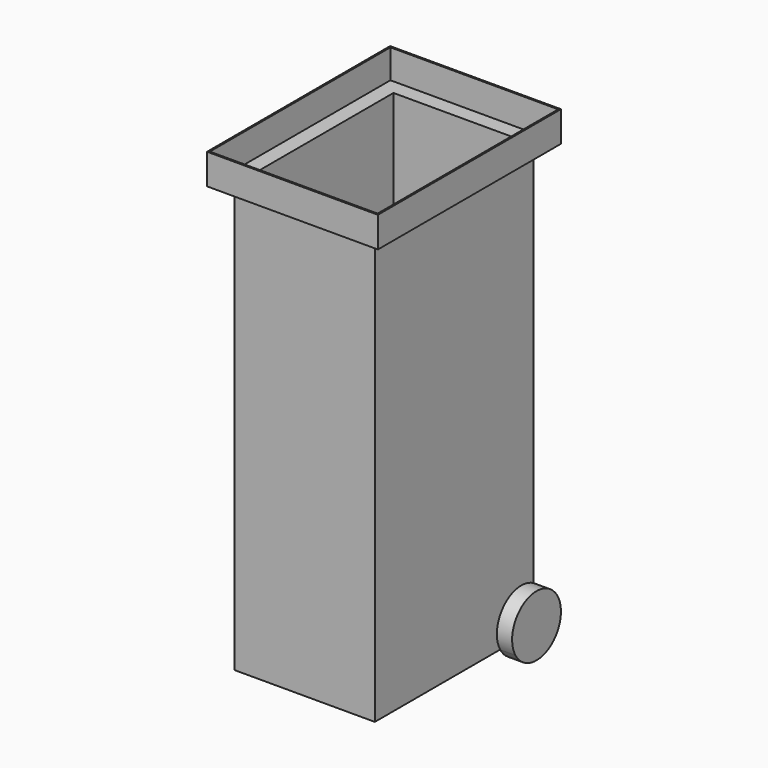
from build123d import *

# Parameters (mm, degrees)
F1_W     = 460
F1_H     = 650
F2_DEPTH = 1500
F3_W     = 560
F3_H     = 750
F3_W_2   = 460
F3_H_2   = 650
F4_DEPTH = 100
F5_T     = -5
F6_R     = 100
F7_DEPTH = 50
F9_DEPTH = 50


with BuildPart() as f2:
    # F1 (on offset) → F2 (new body)
    with BuildSketch(Plane.XY.offset(50)):
        with Locations((280, 375)):
            Rectangle(F1_W, F1_H)
    extrude(amount=F2_DEPTH)

    # F3 (on face) → F4 (join)
    with BuildSketch(Plane.XY.offset(1550)):
        with Locations((280, 375)):
            Rectangle(F3_W, F3_H)
        with Locations((280, 375)):
            Rectangle(F3_W_2, F3_H_2, mode=Mode.SUBTRACT)
    extrude(amount=-F4_DEPTH)

    # F5
    f5_openings = [f2.faces().sort_by_distance(p)[0] for p in [
        (280, 375, 1550),
    ]]
    offset(amount=F5_T, openings=f5_openings, kind=Kind.INTERSECTION)

    # F6 (on Right) → F7 (join, through all)
    with BuildSketch(Plane.YZ):
        with Locations((650, 100)):
            Circle(F6_R)
    extrude(amount=F7_DEPTH)

    # F8 (on face) → F9 (join, through all)
    with BuildSketch(Plane.YZ.offset(510)):
        with BuildLine():
            ThreePointArc((563.3974596216, 50), (675.8819045103, 3.4074173711), (750, 100))
            ThreePointArc((750, 100), (736.6025403784, 150), (700, 186.6025403784))
            Line((700, 186.6025403784), (700, 50))
            Line((700, 50), (563.3974596216, 50))
        make_face()
        with BuildLine():
            Line((700, 50), (700, 186.6025403784))
            ThreePointArc((700, 186.6025403784), (579.2893218813, 170.7106781187), (563.3974596216, 50))
            Line((563.3974596216, 50), (700, 50))
        make_face()
    extrude(amount=F9_DEPTH)


solid = f2.part
